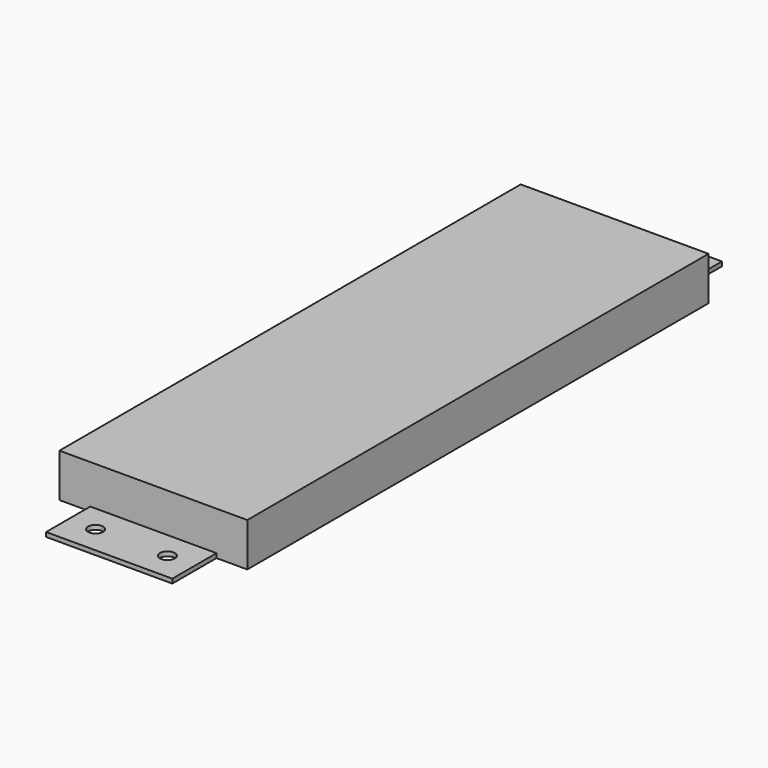
from build123d import *

# Parameters (mm, degrees)
SKETCH003_W  = 43.15
SKETCH003_H  = 132.44
PAD_DEPTH    = 10
SKETCH004_W  = 29
SKETCH004_H  = 12.68
PAD001_DEPTH = 1
BINDER002_R  = 1.7
POCKET_DEPTH = 5


with BuildPart() as part:
    # Sketch003 → Pad (new body)
    with BuildSketch(Plane.XY):
        Rectangle(SKETCH003_W, SKETCH003_H)
    extrude(amount=PAD_DEPTH)

    # Sketch004 → Pad001 (join)
    with BuildSketch(Plane.XY):
        with Locations((0, 72.56)):
            Rectangle(SKETCH004_W, SKETCH004_H)
    pad001 = extrude(amount=PAD001_DEPTH)

    # Binder002 → Pocket (cut)
    with BuildSketch(Plane(origin=(-8.25, -72.5, 0), x_dir=(0, 1, 0), z_dir=(0, 0, 1))):
        Circle(BINDER002_R)
        with Locations((0, -16.5)):
            Circle(BINDER002_R)
        with Locations((145, 0)):
            Circle(BINDER002_R)
        with Locations((145, -16.5)):
            Circle(BINDER002_R)
    pocket = extrude(amount=POCKET_DEPTH, mode=Mode.SUBTRACT)

    # Mirrored: Pad001, Pocket across Sketch004 H_Axis
    add(pad001.mirror(Plane.ZX))
    add(pocket.mirror(Plane.ZX), mode=Mode.SUBTRACT)


solid = part.part
